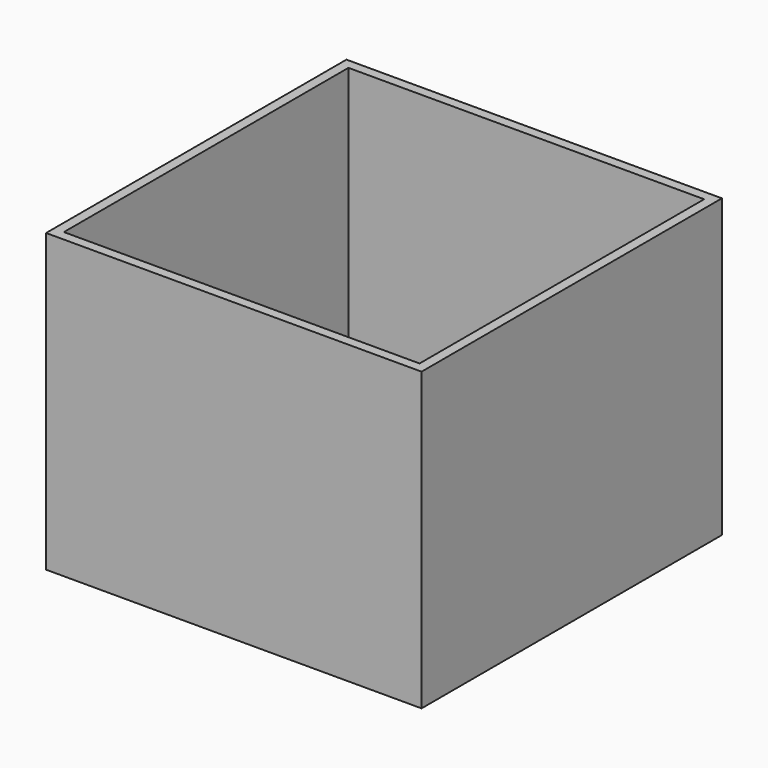
from build123d import *

# Parameters (mm, degrees)
F0_W     = 96.52
F0_H     = 76.2
F1_DEPTH = 96.52
F2_T     = -2.54


with BuildPart() as f1:
    # F0 (on Front) → F1 (new body)
    with BuildSketch(Plane.XZ):
        with Locations((6.01927, 26.454038)):
            Rectangle(F0_W, F0_H)
        with Locations((6.01927, 26.454038)):
            Rectangle(F0_W, F0_H)
    extrude(amount=F1_DEPTH)

    # F2
    f2_openings = [f1.faces().sort_by_distance(p)[0] for p in [
        (6.01927, -48.26, 64.554038),
    ]]
    offset(amount=F2_T, openings=f2_openings)


solid = f1.part
